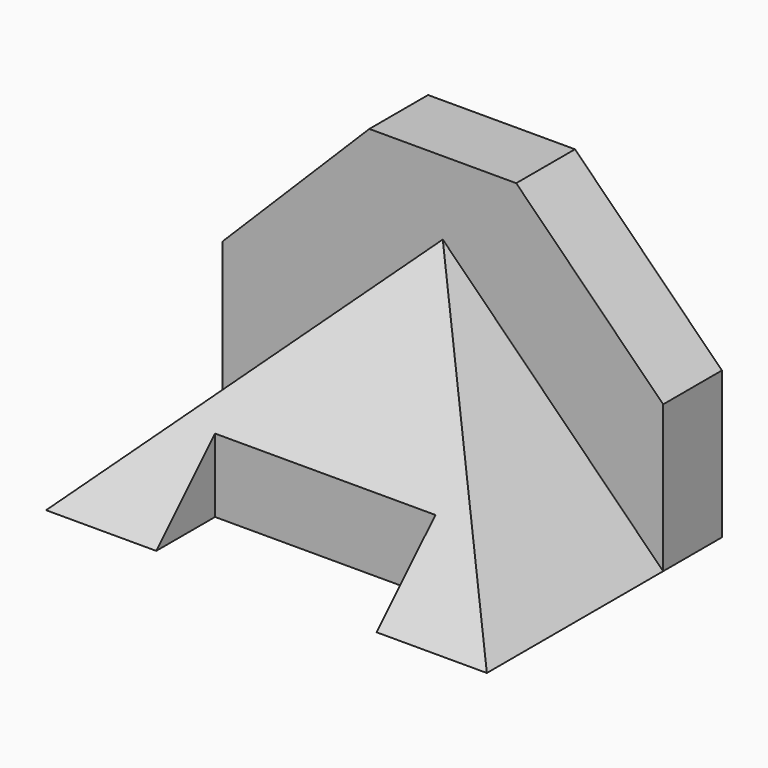
from build123d import *

# Parameters (mm, degrees)
F0_W      = 25.4
F0_H      = 12.7
F1_DEPTH  = 50.8
F2_DEPTH  = 38.1
F3_DEPTH  = 38.1
F5_DEPTH  = 38.1
F6_DEPTH  = 76.201
F8_DEPTH  = 50.801
F9_START  = 12.7
F9_DEPTH  = 38.101
F10_START = 12.7
F10_DEPTH = 38.101


with BuildPart() as f1:
    # F0 (on Top) → F1 (new body)
    with BuildSketch(Plane.XY):
        with Locations((12.7, -6.35)):
            Rectangle(F0_W, F0_H)
        Polygon((50.8, 0), (25.4, 0), (25.4, -12.7), (38.1, -12.7), (50.8, -12.7), align=None)
        with Locations((63.5, -6.35)):
            Rectangle(F0_W, F0_H)
    extrude(amount=F1_DEPTH)

    # F0 (on Top) → F2 (join)
    with BuildSketch(Plane.XY):
        Polygon((38.1, -12.7), (0, -50.8), (19.05, -50.8), (19.05, -38.1), (57.15, -38.1), (57.15, -50.8), (76.2, -50.8), align=None)
    extrude(amount=F2_DEPTH)

    # F0 (on Top) → F3 (join)
    with BuildSketch(Plane.XY):
        Polygon((76.2, -12.7), (50.8, -12.7), (38.1, -12.7), (76.2, -50.8), align=None)
    extrude(amount=F3_DEPTH)

    # F0 (on Top) → F5 (join)
    with BuildSketch(Plane.XY):
        Polygon((25.4, -12.7), (0, -12.7), (0, -50.8), (38.1, -12.7), align=None)
    extrude(amount=F5_DEPTH)

    # F4 (on Right) → F6 (cut, through all)
    with BuildSketch(Plane.YZ):
        Polygon((-50.8, 0), (-12.7, 38.1), (-50.8, 38.1), align=None)
    extrude(amount=F6_DEPTH, mode=Mode.SUBTRACT)

    # F7 (on Front) → F8 (cut, through all)
    with BuildSketch(Plane.XZ):
        Polygon((0, 50.8), (0, 25.4), (12.7, 38.1), (25.4, 50.8), align=None)
        Polygon((50.8, 50.8), (63.5, 38.1), (76.2, 25.4), (76.2, 50.8), align=None)
    extrude(amount=F8_DEPTH, mode=Mode.SUBTRACT)

    # F7 (on Front) → F9 (cut)
    with BuildSketch(Plane.XZ.offset(F9_START)):
        Polygon((0, 25.4), (0, 0), (38.1, 38.1), (12.7, 38.1), align=None)
    extrude(amount=F9_DEPTH, mode=Mode.SUBTRACT)

    # F7 (on Front) → F10 (cut)
    with BuildSketch(Plane.XZ.offset(F10_START)):
        Polygon((63.5, 38.1), (38.1, 38.1), (76.2, 0), (76.2, 25.4), align=None)
    extrude(amount=F10_DEPTH, mode=Mode.SUBTRACT)


solid = f1.part
